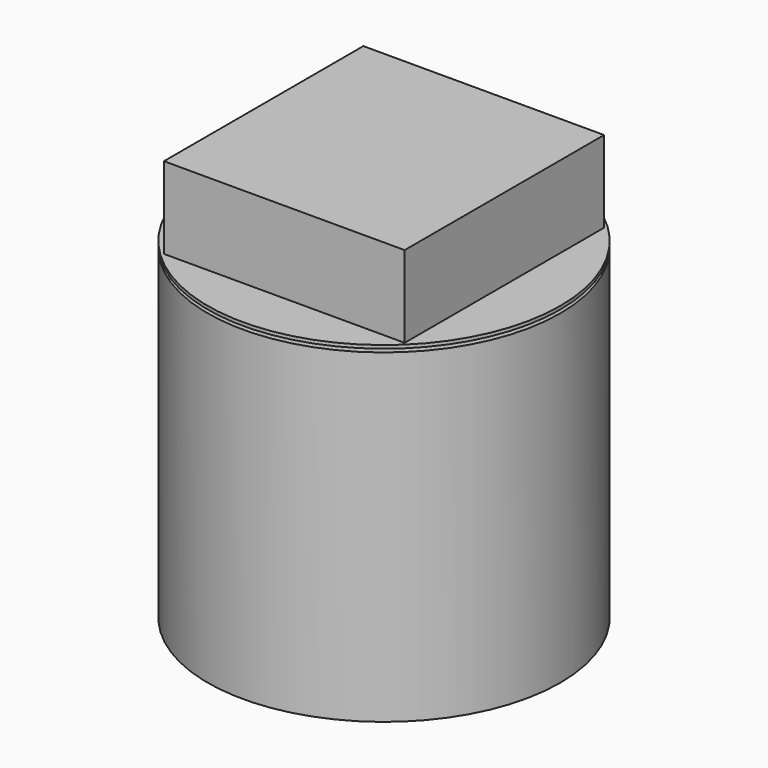
from build123d import *

# Parameters (mm, degrees)
F0_R     = 107.95
F1_DEPTH = 199.2
F2_R     = 37.5
F3_DEPTH = 2
F4_R     = 107.95
F5_DEPTH = 2
F6_W     = 147.4276631508
F6_H     = 152.66
F7_DEPTH = 50


with BuildPart() as f1:
    # F0 (on Top) → F1 (new body)
    with BuildSketch(Plane.XY):
        with Locations((-27.0904134959, -39.0018522739)):
            Circle(F0_R)
    extrude(amount=F1_DEPTH)

    # F2 (on face) → F3 (join)
    with BuildSketch(Plane.XY.offset(199.2)):
        with Locations((-27.0904134959, -39.0018522739)):
            Circle(F2_R)
    extrude(amount=F3_DEPTH)

    # F4 (on face) → F5 (join)
    with BuildSketch(Plane.XY.offset(201.2)):
        with Locations((-27.0904134959, -39.0018522739)):
            Circle(F4_R)
    extrude(amount=F5_DEPTH)

    # F6 (on face) → F7 (join)
    with BuildSketch(Plane.XY.offset(203.2)):
        with Locations((-27.0904134959, -39.0018522739)):
            Rectangle(F6_W, F6_H)
    extrude(amount=F7_DEPTH)


solid = f1.part
